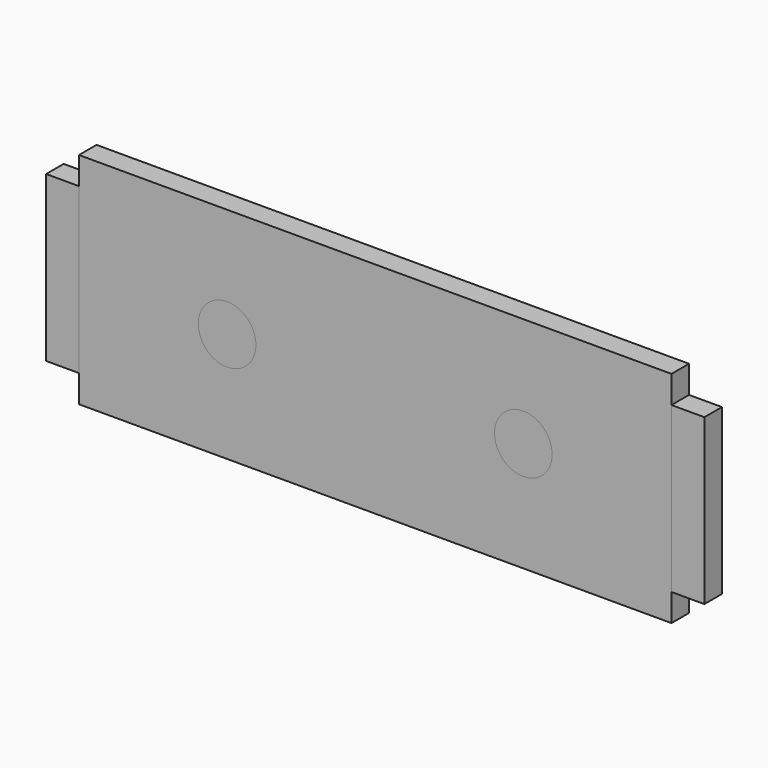
from build123d import *

# Parameters (mm, degrees)
F0_W     = 120
F0_H     = 30
F0_R     = 5.25
F1_DEPTH = 4
F2_W     = 108
F2_H     = 40
F2_R     = 5.25
F3_DEPTH = 4


with BuildPart() as f1:
    # F0 (on Front) → F1 (new body)
    with BuildSketch(Plane.XZ):
        Rectangle(F0_W, F0_H)
        with Locations((-45, 0)):
            Circle(F0_R, mode=Mode.SUBTRACT)
        with Locations((-15, 0)):
            Circle(F0_R, mode=Mode.SUBTRACT)
        with Locations((15, 0)):
            Circle(F0_R, mode=Mode.SUBTRACT)
        with Locations((45, 0)):
            Circle(F0_R, mode=Mode.SUBTRACT)
    extrude(amount=F1_DEPTH)


with BuildPart() as f3:
    # F2 (on Front) → F3 (new body)
    with BuildSketch(Plane.XZ):
        Rectangle(F2_W, F2_H)
        with Locations((-27, 0)):
            Circle(F2_R, mode=Mode.SUBTRACT)
        with Locations((27, 0)):
            Circle(F2_R, mode=Mode.SUBTRACT)
    extrude(amount=F3_DEPTH)


solid = Compound([f1.part, f3.part])
